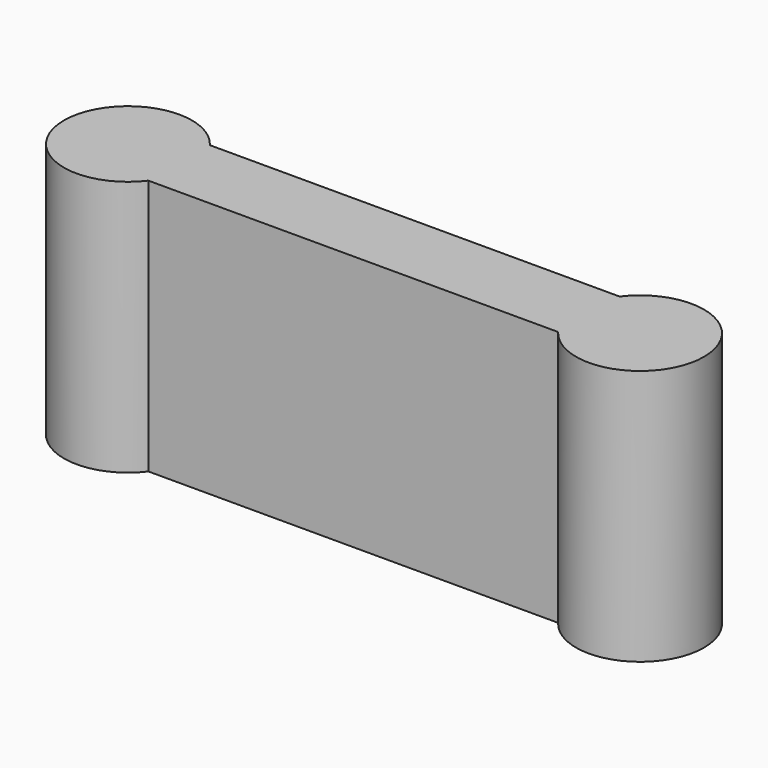
from build123d import *

# Parameters (mm, degrees)
F0_W     = 200
F0_H     = 100
F1_DEPTH = 30
F2_R     = 25
F3_DEPTH = 50
F4_R     = 10
F5_DEPTH = 10


with BuildPart() as f1:
    # F0 (on Front) → F1 (new body)
    with BuildSketch(Plane.XZ):
        Rectangle(F0_W, F0_H)
    extrude(amount=F1_DEPTH)

    # F2 (on Top) → F3 (join, symmetric)
    with BuildSketch(Plane.XY):
        with Locations((-100, -15)):
            Circle(F2_R)
        with Locations((100, -15)):
            Circle(F2_R)
    extrude(amount=F3_DEPTH, both=True)

    # F4 (on Front) → F5 (cut)
    with BuildSketch(Plane.XZ):
        Circle(F4_R)
    extrude(amount=F5_DEPTH, mode=Mode.SUBTRACT)


solid = f1.part
